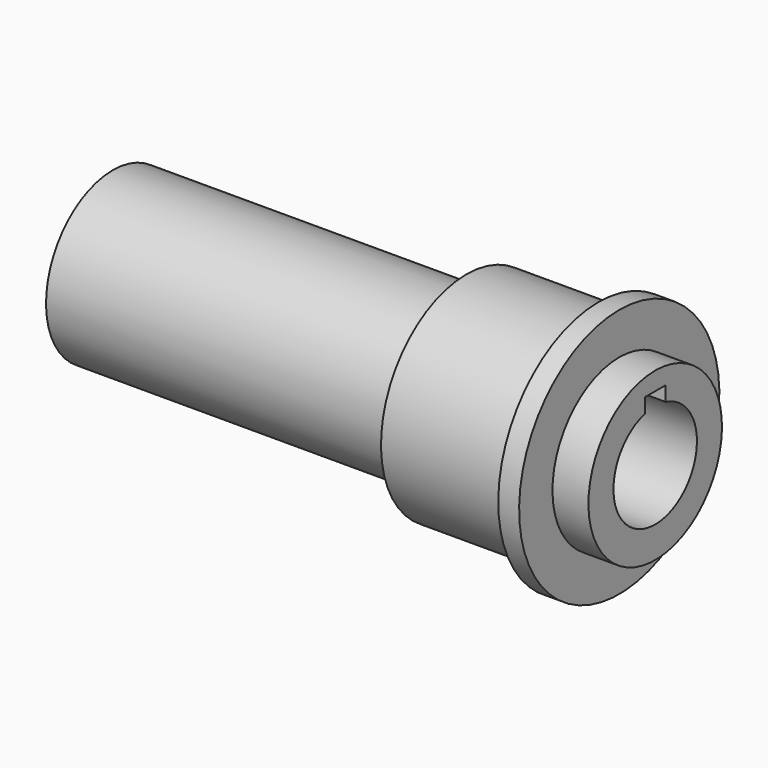
from build123d import *

# Parameters (mm, degrees)
F0_W     = 12.7
F0_H     = 11.2014
F3_DEPTH = 330.2


with BuildPart() as f1:
    # F0 (on Front) → F1 (revolve)
    with BuildSketch(Plane.XZ):
        Polygon((-228.391013, 31.75), (101.808987, 31.75), (101.808987, 50.8), (79.929347, 50.8), (-13.110853, 50.8), (-228.391013, 50.8), align=None)
        Polygon((-13.110853, 50.8), (79.929347, 50.8), (79.929347, 64.9986), (67.229347, 64.9986), (-13.110853, 64.9986), align=None)
        with Locations((73.579347, 70.5993)):
            Rectangle(F0_W, F0_H)
    revolve(axis=Axis((-0.204857, 0, 0), (-1, 0, 0)))

    # F2 (on face) → F3 (cut)
    with BuildSketch(Plane.YZ.offset(101.808987)):
        with BuildLine():
            Line((7.9375, 30.741805), (7.9375, 39.6875))
            Line((7.9375, 39.6875), (-7.9375, 39.6875))
            Line((-7.9375, 39.6875), (-7.9375, 30.741805))
            ThreePointArc((-7.9375, 30.741805), (0, 31.75), (7.9375, 30.741805))
        make_face()
    extrude(amount=-F3_DEPTH, mode=Mode.SUBTRACT)


solid = f1.part
